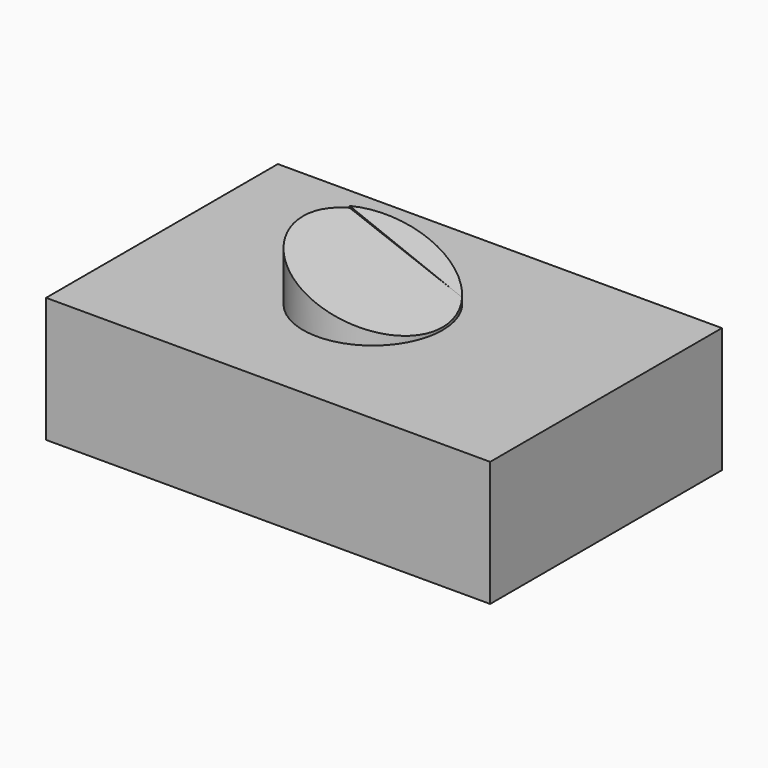
from build123d import *

# Parameters (mm, degrees)
F0_W     = 90.149514
F0_H     = 58.809195
F1_DEPTH = 25.4
F2_R     = 14.165363
F3_DEPTH = 38.1
F5_DEPTH = 261.366
F7_DEPTH = 25.4


with BuildPart() as f1:
    # F0 (on Top) → F1 (new body)
    with BuildSketch(Plane.XY):
        with Locations((4.97758, -9.586451)):
            Rectangle(F0_W, F0_H)
    extrude(amount=F1_DEPTH)

    # F2 (on Top) → F3 (join)
    with BuildSketch(Plane.XY):
        with Locations((1.751372, -8.388145)):
            Circle(F2_R)
    extrude(amount=F3_DEPTH)

    # F4 (on Front) → F5 (cut)
    with BuildSketch(Plane.XZ):
        Polygon((15.946694, 45.627825), (-27.192339, 42.125084), (15.946694, 25.901856), align=None)
    extrude(amount=F5_DEPTH, mode=Mode.SUBTRACT)

    # F6 (on Front) → F7 (cut)
    with BuildSketch(Plane.XZ):
        Polygon((-12.628307, 43.968629), (-12.443951, 36.963146), (15.76234, 25.901856), (15.76234, 43.968629), align=None)
    extrude(amount=-F7_DEPTH, mode=Mode.SUBTRACT)


solid = f1.part
